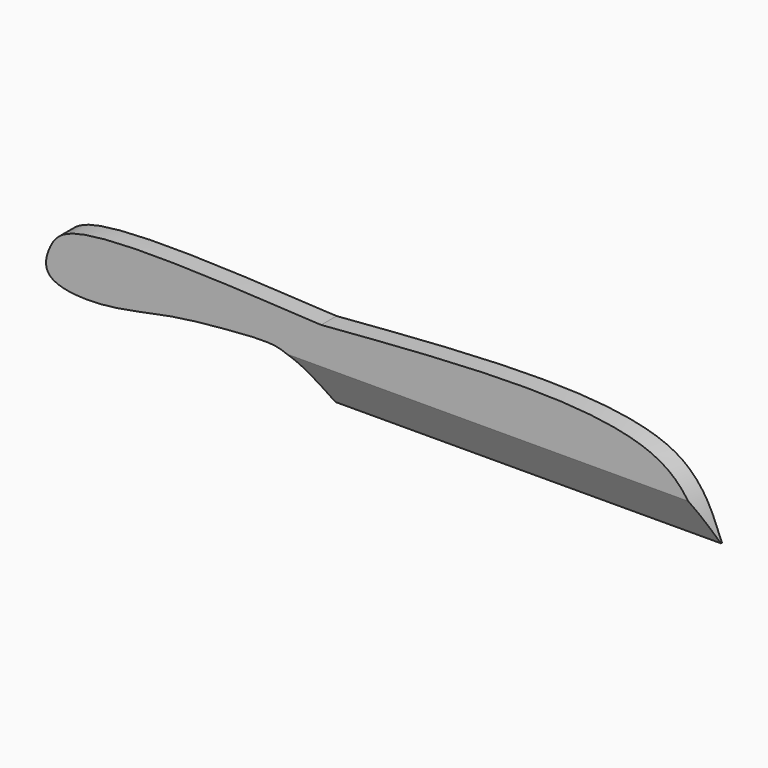
from build123d import *

# Parameters (mm, degrees)
F1_DEPTH = 6.35
F2_SIZE2 = 5.9221072586
F2_SIZE  = 12.7


with BuildPart() as f1:
    # F0 (on Front) → F1 (new body)
    with BuildSketch(Plane.XZ):
        with BuildLine():
            Line((-60.0306552672, 10.2442815062), (66.9693447328, 10.5540371328))
            add(Edge.make_bspline(
                [(66.9693447328, 10.5540371328), (63.7266462136, 18.8999775673), (53.9125740525, 44.1590823507), (-14.3337884972, 38.6880804275), (-60.0306552672, 35.0247694957)],
                knots=[0, 0, 0, 0, 0.3304131523, 1, 1, 1, 1], degree=3))
            Line((-60.0306552672, 35.0247694957), (-60.0306552672, 10.2442815062))
        make_face()
        with BuildLine():
            Line((-60.0306552672, 10.2442815062), (-60.0306552672, 35.0247694957))
            add(Edge.make_bspline(
                [(-60.0306552672, 35.0247694957), (-94.3489914584, 36.9102358022), (-140.6410488499, 39.4535442535), (-149.5116634214, 29.8960012608), (-152.7114808696, 18.1699920146), (-131.4869733853, 16.0917918316), (-109.7128033392, 22.255028398), (-91.8350287089, 23.528518176), (-82.6428538703, 24.1833055271)],
                knots=[0, 0, 0, 0, 0.3087334785, 0.4164510722, 0.5136660335, 0.6537287899, 0.8219585172, 1, 1, 1, 1], degree=3))
            add(Edge.make_bspline(
                [(-82.6428538703, 24.1833055271), (-78.5230073647, 24.353794054), (-69.5516154259, 24.7250504572), (-63.3723018025, 15.3267112809), (-60.0306552672, 10.2442815062)],
                knots=[0, 0, 0, 0, 0.4592204347, 1, 1, 1, 1], degree=3))
        make_face()
    extrude(amount=F1_DEPTH)

    # F2
    f2_edges = [f1.edges().sort_by_distance(p)[0] for p in [
        (3.469345, -6.35, 10.399159),
    ]]
    f2_side = f1.faces().sort_by_distance((-32.6609, -6.35, 24.888305))[0]
    chamfer(f2_edges, length=F2_SIZE, length2=F2_SIZE2, reference=f2_side)


solid = f1.part
